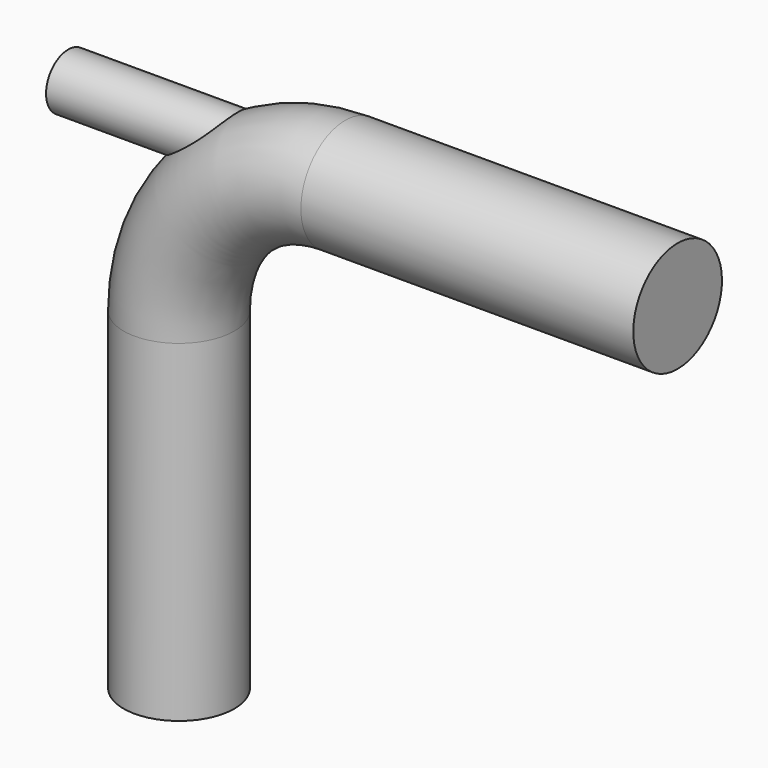
from build123d import *

# Parameters (mm, degrees)
F1_R     = 12.7
F4_R     = 6.35
F5_DEPTH = 76.2


with BuildPart() as f2:
    # F2: sweep along a path in F0
    with BuildLine(Plane.XZ) as f2_path:
        Line((0, 0), (0, 76.2))
        ThreePointArc((0, 76.2), (11.1592316368, 103.1407683632), (38.1, 114.3))
        Line((38.1, 114.3), (114.3, 114.3))
    # F1 (on Top) → F2 (sweep)
    with BuildSketch(Plane.XY):
        Circle(F1_R)
    sweep(path=f2_path.line)

    # F4 (on offset) → F5 (join)
    with BuildSketch(Plane.YZ.offset(-25.4)):
        with Locations((0, 114.3)):
            Circle(F4_R)
    extrude(amount=F5_DEPTH)


solid = f2.part
